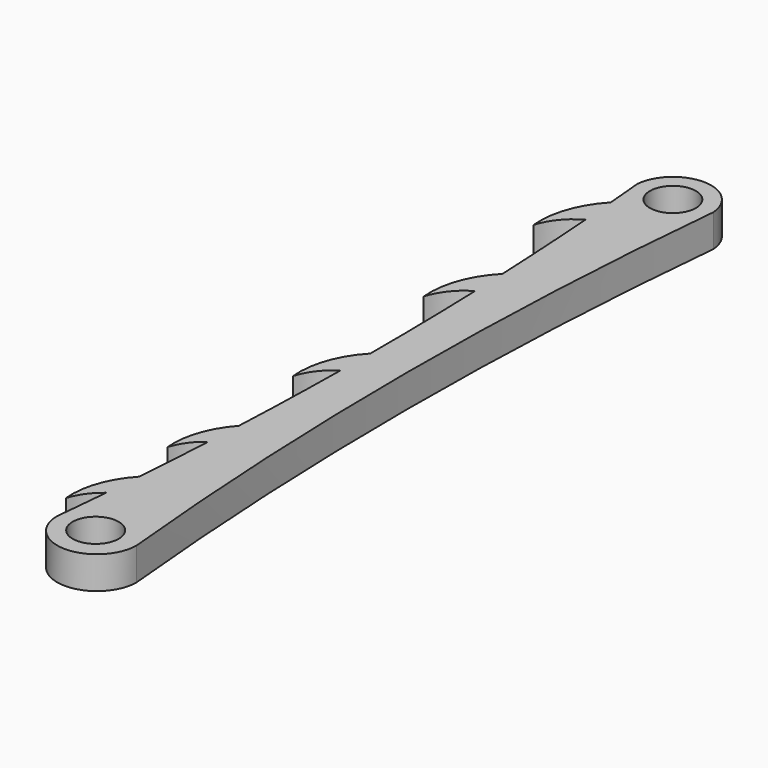
from build123d import *

# Parameters (mm, degrees)
SKETCH048_R  = 1.775161
PAD043_DEPTH = 2.5
PAD044_DEPTH = 2.5


with BuildPart() as right_assembly_insect_leg_chain:
    # Sketch048 → Pad043 (new body)
    with BuildSketch(Plane(origin=(21.5, 17, 18.5124), x_dir=(1, 0, 0), z_dir=(0, 0, 1))):
        with BuildLine():
            ThreePointArc((14.5613, 6.51014), (15.942406, 34.290704), (14.588209, 62.072593))
            ThreePointArc((20.466069, 62.072593), (17.527139, 64.772596), (14.588209, 62.072593))
            ThreePointArc((20.466069, 62.072593), (19.206566, 34.284518), (20.683621, 6.507156))
            ThreePointArc((14.5613, 6.51014), (17.620969, 3.448525), (20.683621, 6.507156))
        make_face()
        with Locations((17.527139, 61.823095)):
            Circle(SKETCH048_R, mode=Mode.SUBTRACT)
        with Locations((17.717781, 6.510143)):
            Circle(SKETCH048_R, mode=Mode.SUBTRACT)
    extrude(amount=PAD043_DEPTH)

    # Sketch060 → Pad044 (new body)
    with BuildSketch(Plane(origin=(21.5, 17, 21.0124), x_dir=(1, 0, 0), z_dir=(0, 0, 1))):
        with BuildLine():
            Line((20.000001, 59.398018), (18.351276, 59.398018))
            Line((18.351276, 59.398018), (16.30761, 56.651009))
            Line((16.30761, 56.651009), (16.30761, 42.307617))
            Line((16.30761, 42.307617), (16.30761, 26.311142))
            Line((16.30761, 26.311142), (16.30761, 16.418461))
            Line((16.30761, 16.418461), (18, 11.53899))
            ThreePointArc((21.743425, 8.667282), (20.323658, 10.692271), (18, 11.53899))
            ThreePointArc((21.743425, 8.667282), (21.321037, 11.586215), (19.626274, 14))
            Line((19.626274, 14), (17.339302, 20.540378))
            ThreePointArc((21.117151, 17.667282), (19.683694, 19.702728), (17.339302, 20.540378))
            ThreePointArc((21.117151, 17.667282), (20.694763, 20.586215), (19, 23))
            Line((19, 23), (16.999998, 32.601983))
            ThreePointArc((21, 29.601985), (19.494884, 31.761832), (16.999998, 32.601983))
            ThreePointArc((21, 29.601985), (20.620642, 32.530944), (19, 35))
            Line((19, 35), (17, 45.62257))
            ThreePointArc((21.338368, 42.601985), (19.698982, 44.873209), (17, 45.62257))
            ThreePointArc((21.338368, 42.601985), (20.95901, 45.530944), (19.338368, 48))
            Line((19.338368, 48), (18, 57.000001))
            ThreePointArc((22.000001, 54.000003), (20.494886, 56.159849), (18, 57.000001))
            ThreePointArc((22.000001, 54.000003), (21.620643, 56.928962), (20.000001, 59.398018))
        make_face()
    extrude(amount=-PAD044_DEPTH)


with BuildPart() as part_mirroring007:
    # Part__Mirroring007: instance of right_assembly_insect_leg_chain
    add(right_assembly_insect_leg_chain.part.mirror(Plane(origin=(0, 0, 0), x_dir=(0, -1, 0), z_dir=(1, 0, 0))))


with BuildPart() as part_mirroring007_1:
    # Part__Mirroring007 placement: moved
    add(part_mirroring007.part.moved(Location((0, 0.15, 0))))


solid = part_mirroring007_1.part
